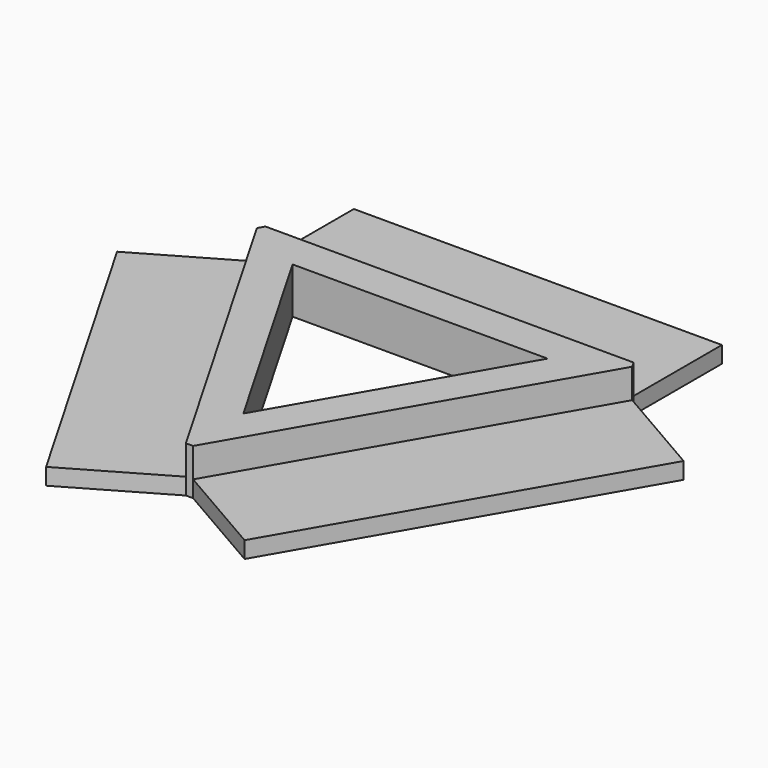
from build123d import *

# Parameters (mm, degrees)
F1_DEPTH = 0.9
F0_W     = 20
F0_H     = 6
F2_DEPTH = 2.5


with BuildPart() as f1:
    # F0 (on Top) → F1 (new body)
    with BuildSketch(Plane.XY):
        Polygon((-0.1961524227, -11.6602540378), (-10.1961524227, 5.6602540378), (-15.3923048454, 2.6602540378), (-5.3923048454, -14.6602540378), align=None)
    extrude(amount=F1_DEPTH)



with BuildPart() as f1b:
    # F0 (on Top) → F1, piece 2 (new body)
    with BuildSketch(Plane.XY):
        with Locations((0, 9)):
            Rectangle(F0_W, F0_H)
    extrude(amount=F1_DEPTH)


with BuildPart() as f1c:
    # F0 (on Top) → F1, piece 3 (new body)
    with BuildSketch(Plane.XY):
        Polygon((15.3923048454, 2.6602540378), (10.1961524227, 5.6602540378), (0.1961524227, -11.6602540378), (5.3923048454, -14.6602540378), align=None)
    extrude(amount=F1_DEPTH)


with BuildPart() as f1_1:
    add(f1.part)

    add(f1b.part)  # F2 merges F1b

    add(f1c.part)  # F2 merges F1c
    # F0 (on Top) → F2 (join)
    with BuildSketch(Plane.XY):
        Polygon((10, 6), (-10, 6), (-10.1961524227, 5.6602540378), (-0.1961524227, -11.6602540378), (0.1961524227, -11.6602540378), (10.1961524227, 5.6602540378), align=None)
        Polygon((6.9282032303, 4), (0, -8), (-6.9282032303, 4), align=None, mode=Mode.SUBTRACT)
    extrude(amount=F2_DEPTH)


solid = f1_1.part
